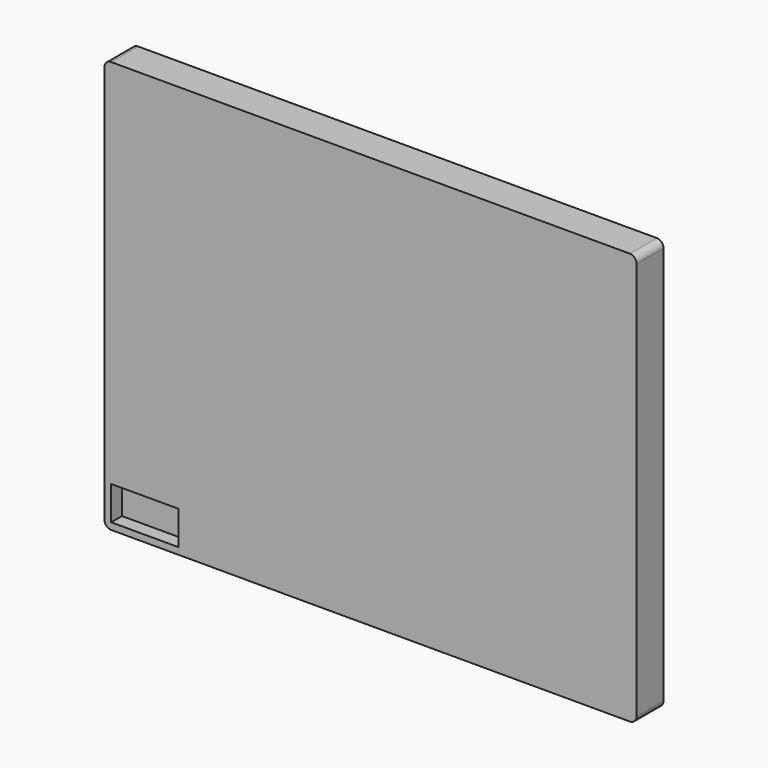
from build123d import *

# Parameters (mm, degrees)
F1_DEPTH = 25
F2_W     = 50
F2_H     = 25
F3_DEPTH = 10


with BuildPart() as f1:
    # F0 (on Front) → F1 (new body)
    with BuildSketch(Plane.XZ):
        with BuildLine():
            ThreePointArc((0, 5), (1.464466, 1.464466), (5, 0))
            Line((5, 0), (389, 0))
            ThreePointArc((389, 0), (392.535534, 1.464466), (394, 5))
            Line((394, 5), (394, 300))
            ThreePointArc((394, 300), (392.535534, 303.535534), (389, 305))
            Line((389, 305), (5, 305))
            ThreePointArc((5, 305), (1.464466, 303.535534), (0, 300))
            Line((0, 300), (0, 5))
        make_face()
    extrude(amount=F1_DEPTH)

    # F2 (on face) → F3 (cut)
    with BuildSketch(Plane.XZ.offset(25)):
        with Locations((30, 17.5)):
            Rectangle(F2_W, F2_H)
    extrude(amount=-F3_DEPTH, mode=Mode.SUBTRACT)


solid = f1.part
